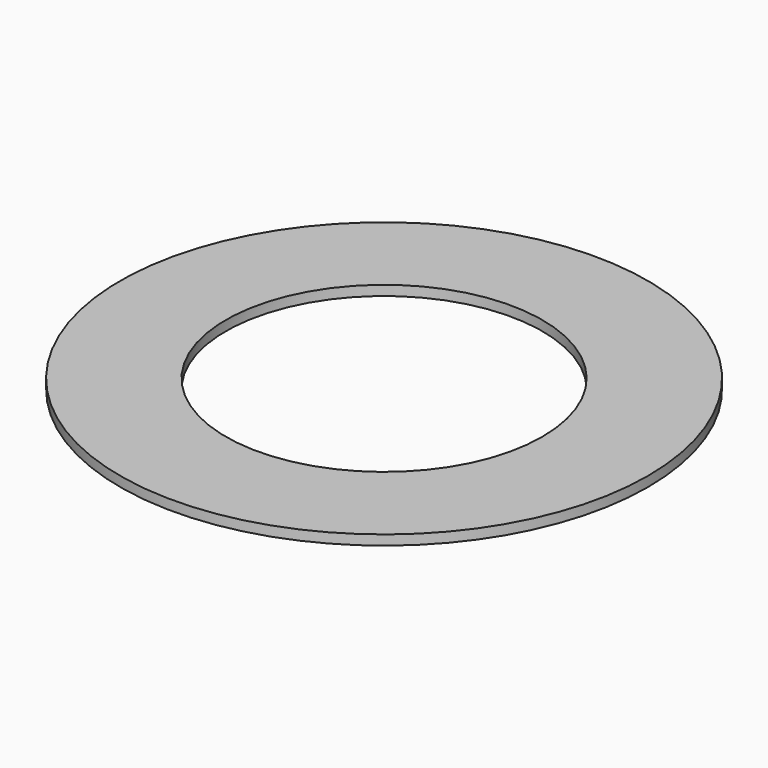
from build123d import *

# Parameters (mm, degrees)
F0_R     = 13.3462688685
F0_R_2   = 10.7833271779
F0_R_3   = 8
F1_DEPTH = 0.5


with BuildPart() as f1:
    # F0 (on Top) → F1 (new body)
    with BuildSketch(Plane.XY):
        Circle(F0_R)
        Circle(F0_R_2, mode=Mode.SUBTRACT)
        Circle(F0_R_2)
        Circle(F0_R_3, mode=Mode.SUBTRACT)
    extrude(amount=F1_DEPTH)


solid = f1.part
